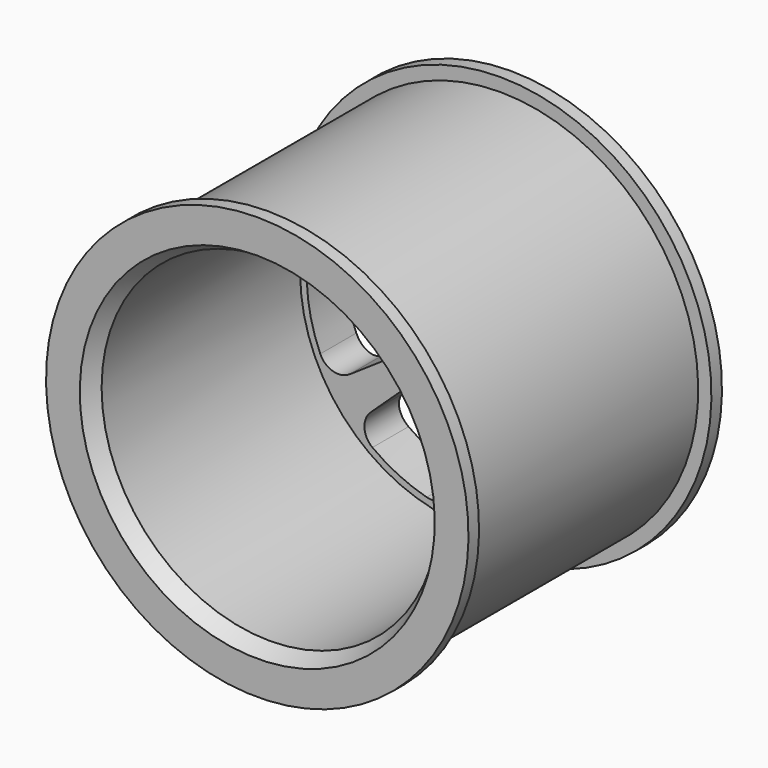
from build123d import *

# Parameters (mm, degrees)
F2_W     = 3.175
F2_H     = 3.175
F3_DEPTH = 12.7
F7_DEPTH = 12.0869021675
F8_SIZE2 = 2.1997045256
F8_SIZE  = 3.81


with BuildPart() as f1:
    # F0 (on Right) → F1 (revolve)
    with BuildSketch(Plane.YZ):
        Polygon((-38.1, 50.8), (-38.1, 40.48125), (25.4, 40.48125), (25.4, 6.35), (38.1, 6.35), (38.1, 50.8), (34.925, 50.8), (34.925, 47.625), (-34.925, 47.625), (-34.925, 50.8), align=None)
    revolve(axis=Axis((0, 0.50836429, 0), (0, 1, 0)))

    # F2 (on face) → F3 (cut, through all)
    with BuildSketch(Plane(origin=(0, 38.1, 0), x_dir=(-1, 0, 0), z_dir=(0, 1, 0))):
        with Locations((0, 6.35)):
            Rectangle(F2_W, F2_H)
    extrude(amount=-F3_DEPTH, mode=Mode.SUBTRACT)

    # F4 (on Right) → F5 (revolve, cut)
    with BuildSketch(Plane.YZ):
        with BuildLine():
            Line((38.1, 10.795), (38.1, 44.45))
            ThreePointArc((38.1, 44.45), (34.7916789126, 27.6225), (38.1, 10.795))
        make_face()
    revolve(axis=Axis((0, 2.1247211844, 0), (0, 1, 0)), mode=Mode.SUBTRACT)

    # F6 (on face) → F7 (cut, through all)
    with BuildSketch(Plane.XZ.offset(-25.4)):
        with BuildLine():
            ThreePointArc((10.790867557, 31.8148558243), (10.5133532072, 35.8479023086), (7.2360465116, 38.2147016205))
            ThreePointArc((7.2360465116, 38.2147016205), (0, 38.89375), (-7.2360465116, 38.2147016205))
            ThreePointArc((-7.2360465116, 38.2147016205), (-10.5133532072, 35.8479023086), (-10.790867557, 31.8148558243))
            Line((-10.790867557, 31.8148558243), (-4.440867557, 15.4245054226))
            ThreePointArc((-4.440867557, 15.4245054226), (0, 12.3825), (4.440867557, 15.4245054226))
            Line((4.440867557, 15.4245054226), (10.790867557, 31.8148558243))
        make_face()
        with BuildLine():
            Line((-31.6018517686, 11.3995981748), (-14.8281995741, 6.1450117642))
            ThreePointArc((-14.8281995741, 6.1450117642), (-9.6810283317, 7.7203624715), (-9.2905283077, 13.0890318953))
            Line((-9.2905283077, 13.0890318953), (-18.1458600186, 28.2728781333))
            ThreePointArc((-18.1458600186, 28.2728781333), (-21.4720500973, 30.5704720311), (-25.3658556143, 29.4838457129))
            ThreePointArc((-25.3658556143, 29.4838457129), (-30.4083582212, 24.249856481), (-34.3890580258, 18.1691077701))
            ThreePointArc((-34.3890580258, 18.1691077701), (-34.5819871133, 14.1311309838), (-31.6018517686, 11.3995981748))
        make_face()
        with BuildLine():
            Line((-28.6159970382, -17.5997894097), (-14.0495948718, -7.7618010881))
            ThreePointArc((-14.0495948718, -7.7618010881), (-12.0720448726, -2.7553654647), (-16.0259668645, 0.8972503832))
            Line((-16.0259668645, 0.8972503832), (-33.4183848921, 3.4408465463))
            ThreePointArc((-33.4183848921, 3.4408465463), (-37.2885617285, 2.2728527902), (-38.8667510934, -1.4489473774))
            ThreePointArc((-38.8667510934, -1.4489473774), (-37.9186024844, -8.6546735751), (-35.6464074376, -15.5581948135))
            ThreePointArc((-35.6464074376, -15.5581948135), (-32.6096793792, -18.2266701944), (-28.6159970382, -17.5997894097))
        make_face()
        with BuildLine():
            Line((-4.081712878, -33.3461765985), (-2.6913586714, -15.8238194092))
            ThreePointArc((-2.6913586714, -15.8238194092), (-5.3725653996, -11.1562470068), (-10.6935255022, -11.970178968))
            Line((-10.6935255022, -11.970178968), (-23.5261843311, -23.9822126705))
            ThreePointArc((-23.5261843311, -23.9822126705), (-25.0260258301, -27.7362709595), (-23.100190262, -31.2906535394))
            ThreePointArc((-23.100190262, -31.2906535394), (-16.8753656783, -35.042057906), (-10.0612849947, -37.5698593731))
            ThreePointArc((-10.0612849947, -37.5698593731), (-6.0816179563, -36.8594169599), (-4.081712878, -33.3461765985))
        make_face()
        with BuildLine():
            Line((23.5261843311, -23.9822126705), (10.6935255022, -11.970178968))
            ThreePointArc((10.6935255022, -11.970178968), (5.3725653996, -11.1562470068), (2.6913586714, -15.8238194092))
            Line((2.6913586714, -15.8238194092), (4.081712878, -33.3461765985))
            ThreePointArc((4.081712878, -33.3461765985), (6.0816179563, -36.8594169599), (10.0612849947, -37.5698593731))
            ThreePointArc((10.0612849947, -37.5698593731), (16.8753656783, -35.042057906), (23.100190262, -31.2906535394))
            ThreePointArc((23.100190262, -31.2906535394), (25.0260258301, -27.7362709595), (23.5261843311, -23.9822126705))
        make_face()
        with BuildLine():
            Line((33.4183848921, 3.4408465463), (16.0259668645, 0.8972503832))
            ThreePointArc((16.0259668645, 0.8972503832), (12.0720448726, -2.7553654647), (14.0495948718, -7.7618010881))
            Line((14.0495948718, -7.7618010881), (28.6159970382, -17.5997894097))
            ThreePointArc((28.6159970382, -17.5997894097), (32.6096793792, -18.2266701944), (35.6464074376, -15.5581948135))
            ThreePointArc((35.6464074376, -15.5581948135), (37.9186024844, -8.6546735751), (38.8667510934, -1.4489473774))
            ThreePointArc((38.8667510934, -1.4489473774), (37.2885617285, 2.2728527902), (33.4183848921, 3.4408465463))
        make_face()
        with BuildLine():
            Line((18.1458600186, 28.2728781333), (9.2905283077, 13.0890318953))
            ThreePointArc((9.2905283077, 13.0890318953), (9.6810283317, 7.7203624715), (14.8281995741, 6.1450117642))
            Line((14.8281995741, 6.1450117642), (31.6018517686, 11.3995981748))
            ThreePointArc((31.6018517686, 11.3995981748), (34.5819871133, 14.1311309838), (34.3890580258, 18.1691077701))
            ThreePointArc((34.3890580258, 18.1691077701), (30.4083582212, 24.249856481), (25.3658556143, 29.4838457129))
            ThreePointArc((25.3658556143, 29.4838457129), (21.4720500973, 30.5704720311), (18.1458600186, 28.2728781333))
        make_face()
    extrude(amount=-F7_DEPTH, mode=Mode.SUBTRACT)

    # F8
    f8_edges = [f1.edges().sort_by_distance(p)[0] for p in [
        (0, -38.1, -40.48125),
    ]]
    f8_side = f1.faces().sort_by_distance((0, -6.35, -40.48125))[0]
    chamfer(f8_edges, length=F8_SIZE, length2=F8_SIZE2, reference=f8_side)


solid = f1.part
